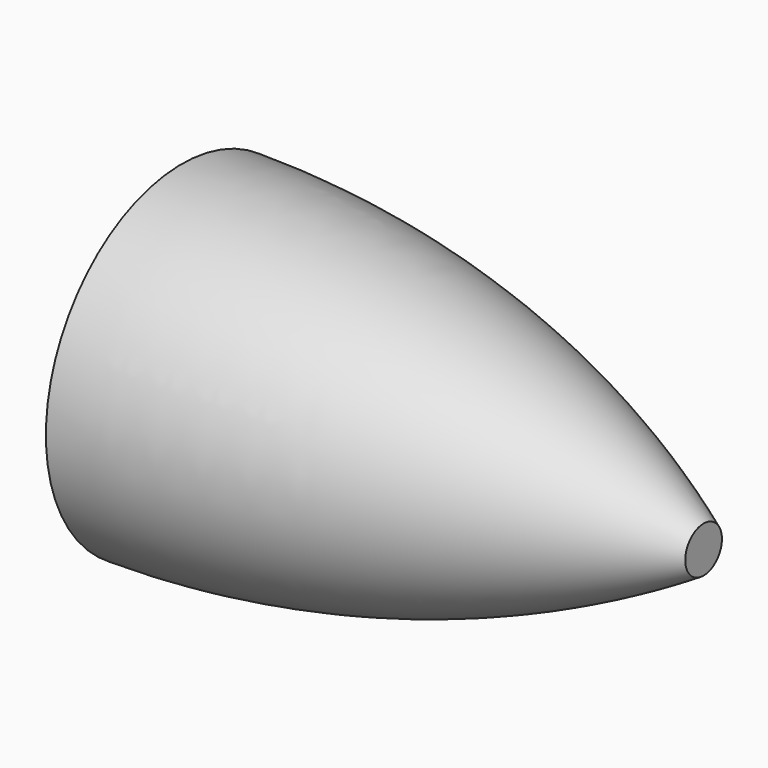
from build123d import *


with BuildPart() as f1:
    # F0 (on Top) → F1 (revolve)
    with BuildSketch(Plane.XY):
        with BuildLine():
            Line((43.198854, 2.351832), (43.198854, -12.253168))
            Line((43.198854, -12.253168), (88.077798, -12.253168))
            Line((88.077798, -12.253168), (88.077798, -10.280319))
            ThreePointArc((88.077798, -10.280319), (66.510283, -0.866394), (43.198854, 2.351832))
        make_face()
    revolve(axis=Axis((68.354353, -12.253168, 0), (1, 0, 0)))


solid = f1.part
